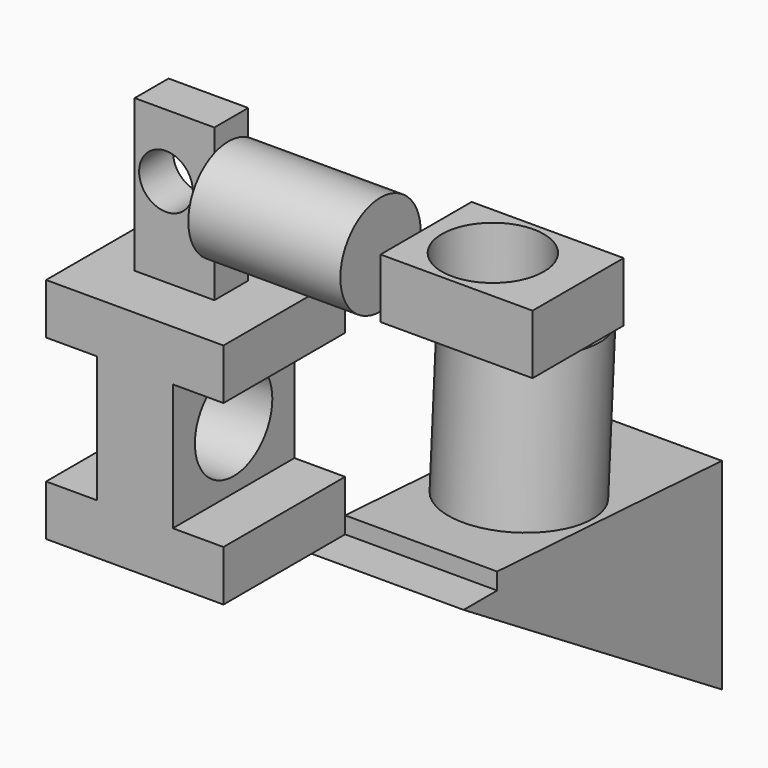
from build123d import *

# Parameters (mm, degrees)
F1_DEPTH  = 76.2
F2_R      = 24.255044585
F3_DEPTH  = 63.501
F4_W      = 39.929619059
F4_H      = 21.2284065783
F5_DEPTH  = 76.2
F6_R      = 13.4639441967
F7_DEPTH  = 48.4624782035
F9_DEPTH  = 76.2
F11_DEPTH = 76.2
F12_R     = 25.532860147
F13_DEPTH = 155.6596173367
F15_DEPTH = 76.2
F16_R     = 35.0001561694
F17_DEPTH = 76.2


with BuildPart() as f1:
    # F0 (on Front) → F1 (new body)
    with BuildSketch(Plane.XZ):
        Polygon((-43.7716264993, -24.640423591), (-43.7716264993, -50.040423591), (45.1283735007, -50.040423591), (45.1283735007, -24.640423591), (19.7283735007, -24.640423591), (19.7283735007, 38.859576409), (45.1283735007, 38.859576409), (45.1283735007, 64.259576409), (-43.7716264993, 64.259576409), (-43.7716264993, 38.859576409), (-18.3716264993, 38.859576409), (-18.3716264993, -24.640423591), align=None)
    extrude(amount=F1_DEPTH)

    # F2 (on face) → F3 (cut, through all)
    with BuildSketch(Plane.YZ.offset(19.7283735007)):
        with Locations((-38.1, 7.109576409)):
            Circle(F2_R)
    extrude(amount=-F3_DEPTH, mode=Mode.SUBTRACT)

    # F4 (on face) → F5 (join)
    with BuildSketch(Plane.XY.offset(64.259576409)):
        with Locations((-1.5961034223, -37.8472749144)):
            Rectangle(F4_W, F4_H)
    extrude(amount=F5_DEPTH)

    # F6 (on face) → F7 (cut, through all)
    with BuildSketch(Plane.XZ.offset(48.4614782035)):
        with Locations((-5.8800955303, 108.7855547667)):
            Circle(F6_R)
    extrude(amount=-F7_DEPTH, mode=Mode.SUBTRACT)

    # F8 (on face) → F9 (join)
    with BuildSketch(Plane.YZ.offset(18.3687061071)):
        with BuildLine():
            Line((-27.2330716252, 83.7401615654), (-27.2330716252, 127.4962259258))
            ThreePointArc((-27.2330716252, 127.4962259258), (-37.6627033578, 130.6851313451), (-48.4614782035, 129.157781457))
            Line((-48.4614782035, 129.157781457), (-48.4614782035, 82.0786060342))
            ThreePointArc((-48.4614782035, 82.0786060342), (-37.6627033578, 80.5512561461), (-27.2330716252, 83.7401615654))
        make_face()
        with BuildLine():
            ThreePointArc((-27.2330716252, 83.7401615654), (-17.9017759749, 92.9566268256), (-14.4810986247, 105.6181937456))
            ThreePointArc((-14.4810986247, 105.6181937456), (-17.9017759749, 118.2797606657), (-27.2330716252, 127.4962259258))
            Line((-27.2330716252, 127.4962259258), (-27.2330716252, 83.7401615654))
        make_face()
        with BuildLine():
            Line((-48.4614782035, 82.0786060342), (-48.4614782035, 129.157781457))
            ThreePointArc((-48.4614782035, 129.157781457), (-64.7683057461, 105.6181937456), (-48.4614782035, 82.0786060342))
        make_face()
    extrude(amount=F9_DEPTH)

    # F10 (on face) → F11 (join)
    with BuildSketch(Plane.YZ.offset(94.5687061071)):
        with BuildLine():
            Line((17.4530148506, 105.6181937456), (-14.4810986247, 105.6181937456))
            ThreePointArc((-14.4810986247, 105.6181937456), (-21.8454896042, 87.8389811644), (-39.6247021854, 80.4745901849))
            Line((-39.6247021854, 80.4745901849), (-39.6247021854, 75.824894011))
            Line((-39.6247021854, 75.824894011), (17.4530148506, 75.824894011))
            Line((17.4530148506, 75.824894011), (17.4530148506, 105.6181937456))
        make_face()
        with BuildLine():
            Line((-14.4810986247, 105.6181937456), (-39.6247021854, 105.6181937456))
            Line((-39.6247021854, 105.6181937456), (-39.6247021854, 80.4745901849))
            ThreePointArc((-39.6247021854, 80.4745901849), (-21.8454896042, 87.8389811644), (-14.4810986247, 105.6181937456))
        make_face()
    extrude(amount=F11_DEPTH)

    # F12 (on face) → F13 (cut, through all)
    with BuildSketch(Plane.XY.offset(105.6181937456)):
        with Locations((128.028690815, -11.0858436674)):
            Circle(F12_R)
    extrude(amount=-F13_DEPTH, mode=Mode.SUBTRACT)


with BuildPart() as f15:
    # F14 (on face) → F15 (new body)
    with BuildSketch(Plane.YZ.offset(45.1283735007)):
        Polygon((0, -50.040423591), (-21.0034160411, -50.040423591), (140.7995223999, -150.9381681681), (140.7995223999, -50.040423591), (0, -41.6497582876), align=None)
    extrude(amount=F15_DEPTH)

    # F16 (on face) → F17 (join)
    with BuildSketch(Plane(origin=(0, -2.4732505411, -41.5023698792), x_dir=(1, 0, 0), z_dir=(0, 0.0594874595, 0.998229053))):
        with Locations((83.1382647157, 63.9486163855)):
            Circle(F16_R)
    extrude(amount=F17_DEPTH)


solid = Compound([f1.part, f15.part])
